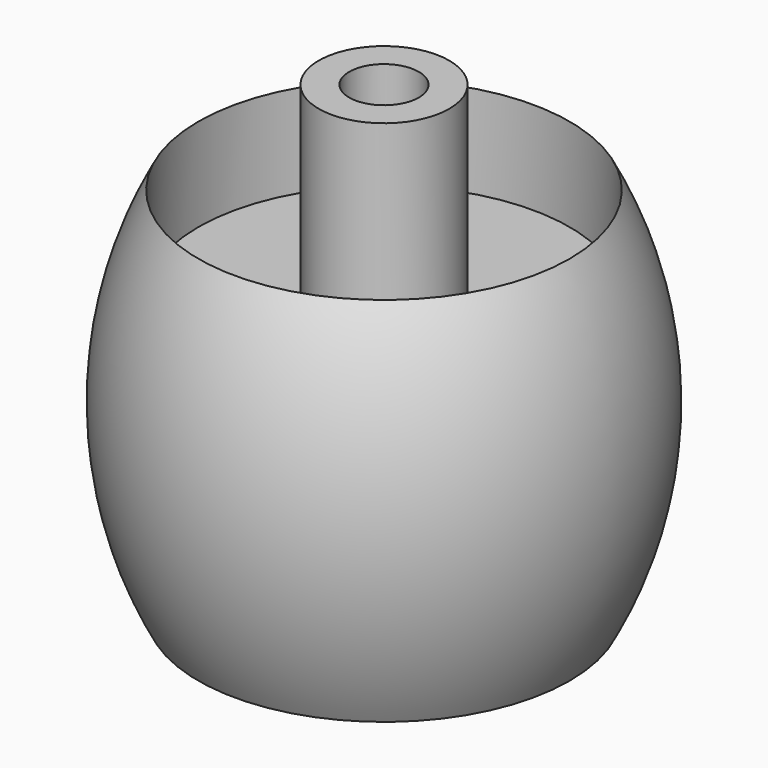
from build123d import *

# Parameters (mm, degrees)
F3_DEPTH = 12.7
F2_R     = 4.7625
F4_DEPTH = 9.525
F5_R     = 1.5875
F6_DEPTH = 21.844


with BuildPart() as f1:
    # F0 (on Front) → F1 (revolve)
    with BuildSketch(Plane.XZ):
        with BuildLine():
            Line((0, 63.5), (0, 0))
            Line((0, 0), (25.4, 0))
            ThreePointArc((25.4, 0), (31.75, 25.4), (25.4, 50.8))
            Line((25.4, 50.8), (8.9292435173, 50.8))
            Line((8.9292435173, 50.8), (8.9292435173, 63.5))
            Line((8.9292435173, 63.5), (0, 63.5))
        make_face()
    revolve(axis=Axis((0, 0, 31.75), (0, 0, -1)))

    # F3 (cut): a face of the model
    f3_faces = [f1.faces().sort_by_distance(p)[0] for p in [
        (-24.6815795103, 0, 50.8),
    ]]
    extrude(f3_faces, amount=-F3_DEPTH, mode=Mode.SUBTRACT)

    # F2 (on face) → F4 (cut)
    with BuildSketch(Plane.XY.offset(63.5)):
        Circle(F2_R)
    extrude(amount=-F4_DEPTH, mode=Mode.SUBTRACT)

    # F5 (on face) → F6 (cut)
    with BuildSketch(Plane(origin=(0, 0, 0), x_dir=(1, 0, 0), z_dir=(0, 0, -1))):
        Circle(F5_R)
    extrude(amount=-F6_DEPTH, mode=Mode.SUBTRACT)


solid = f1.part
